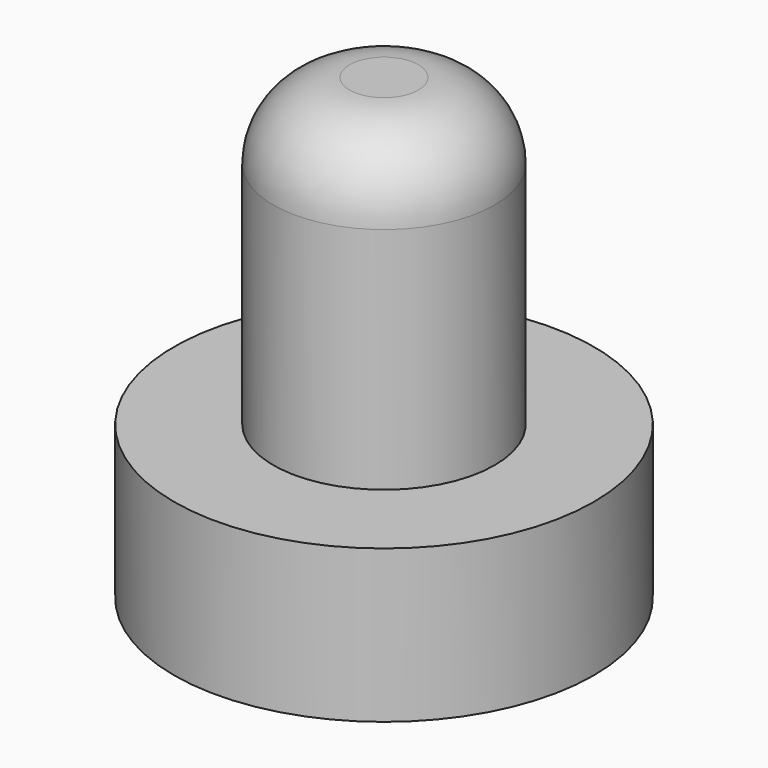
from build123d import *

# Parameters (mm, degrees)
SKETCH_R     = 2.75
PAD_DEPTH    = 2
SKETCH001_R  = 1.45
PAD001_DEPTH = 4
FILLET_R     = 1


with BuildPart() as part:
    # Sketch → Pad (new body)
    with BuildSketch(Plane.XY):
        Circle(SKETCH_R)
    extrude(amount=PAD_DEPTH)

    # Sketch001 (on Face3 of Pad) → Pad001 (join)
    with BuildSketch(Plane.XY.offset(2)):
        Circle(SKETCH001_R)
    extrude(amount=PAD001_DEPTH)

    # Fillet
    fillet_edges = [part.edges().sort_by_distance(p)[0] for p in [
        (-1.45, 0, 6),
    ]]
    fillet(fillet_edges, radius=FILLET_R)


solid = part.part
